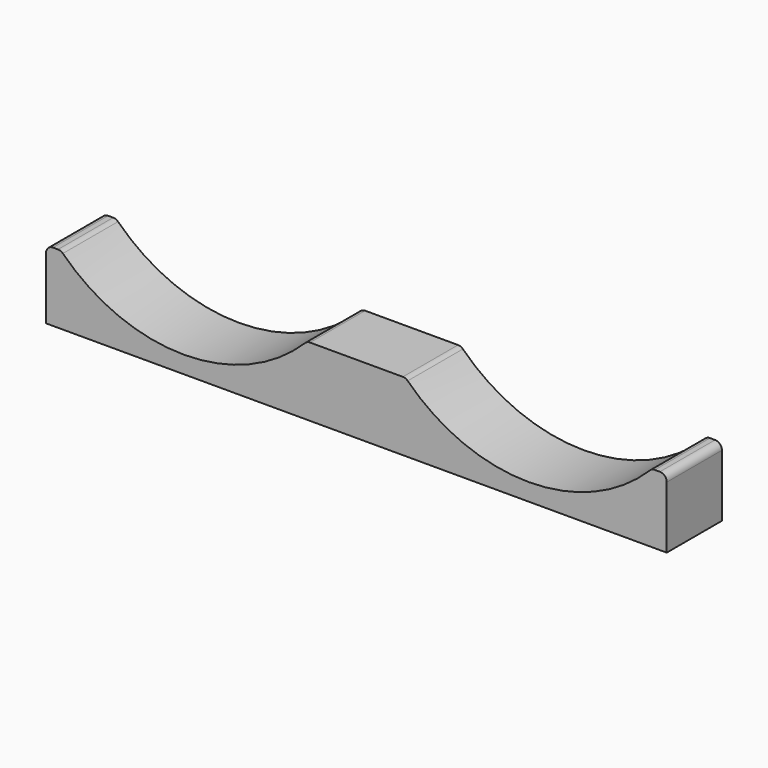
from build123d import *

# Parameters (mm, degrees)
F0_W     = 180
F0_H     = 20
F1_DEPTH = 20
F3_DEPTH = 25
F4_R     = 2


with BuildPart() as f1:
    # F0 (on Front) → F1 (new body)
    with BuildSketch(Plane.XZ):
        with Locations((90, 10)):
            Rectangle(F0_W, F0_H)
    extrude(amount=-F1_DEPTH)

    # F2 (on face) → F3 (cut)
    with BuildSketch(Plane.XZ):
        with BuildLine():
            Line((75.7071421427, 20), (4.2928578573, 20))
            ThreePointArc((4.2928578573, 20), (40, 5), (75.7071421427, 20))
        make_face()
        with BuildLine():
            Line((175.7071421427, 20), (104.2928578573, 20))
            ThreePointArc((104.2928578573, 20), (140, 5), (175.7071421427, 20))
        make_face()
    extrude(amount=-F3_DEPTH, mode=Mode.SUBTRACT)

    # F4
    f4_edges = [f1.edges().sort_by_distance(p)[0] for p in [
        (0, 10, 20),
        (4.292858, 10, 20),
        (75.707142, 10, 20),
        (104.292858, 10, 20),
        (175.707142, 10, 20),
        (180, 10, 20),
    ]]
    fillet(f4_edges, radius=F4_R)


solid = f1.part
